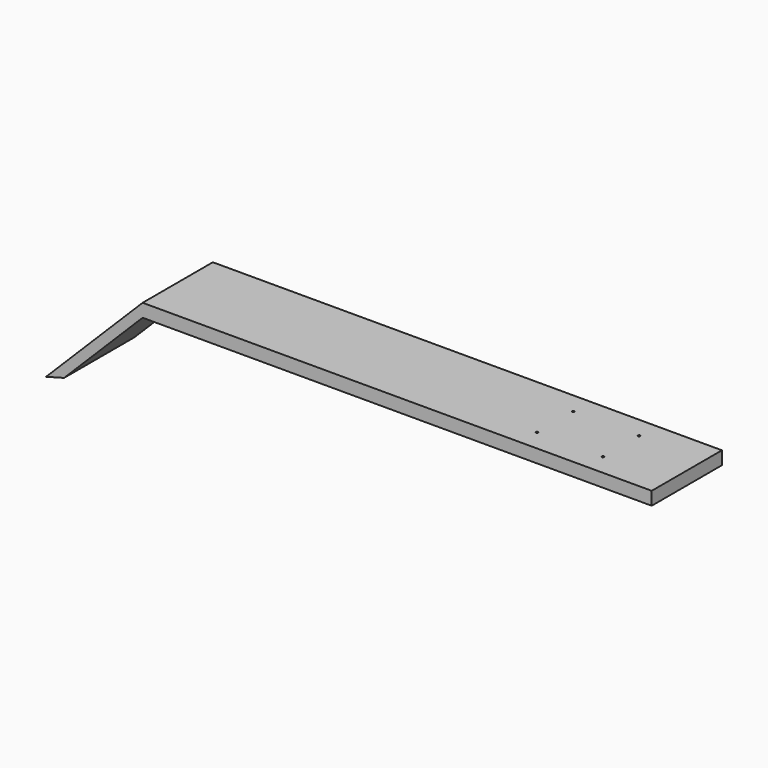
from build123d import *

# Parameters (mm, degrees)
F1_DEPTH = 254
F2_R     = 3.175
F3_DEPTH = 38.1


with BuildPart() as f1:
    # F0 (on Front) → F1 (new body)
    with BuildSketch(Plane.XZ):
        Polygon((-227.306136, -227.306136), (0, 0), (1473.2, 0), (1473.2, 38.1), (0, 38.1), (-279.351704, -241.251704), align=None)
    extrude(amount=F1_DEPTH)

    # F2 (on face) → F3 (cut)
    with BuildSketch(Plane.XY.offset(38.1)):
        with Locations((1092.2, -61.5188)):
            Circle(F2_R)
        with Locations((1092.2, -192.4812)):
            Circle(F2_R)
        with Locations((1282.7, -61.5188)):
            Circle(F2_R)
        with Locations((1282.7, -192.4812)):
            Circle(F2_R)
    extrude(amount=-F3_DEPTH, mode=Mode.SUBTRACT)


solid = f1.part
